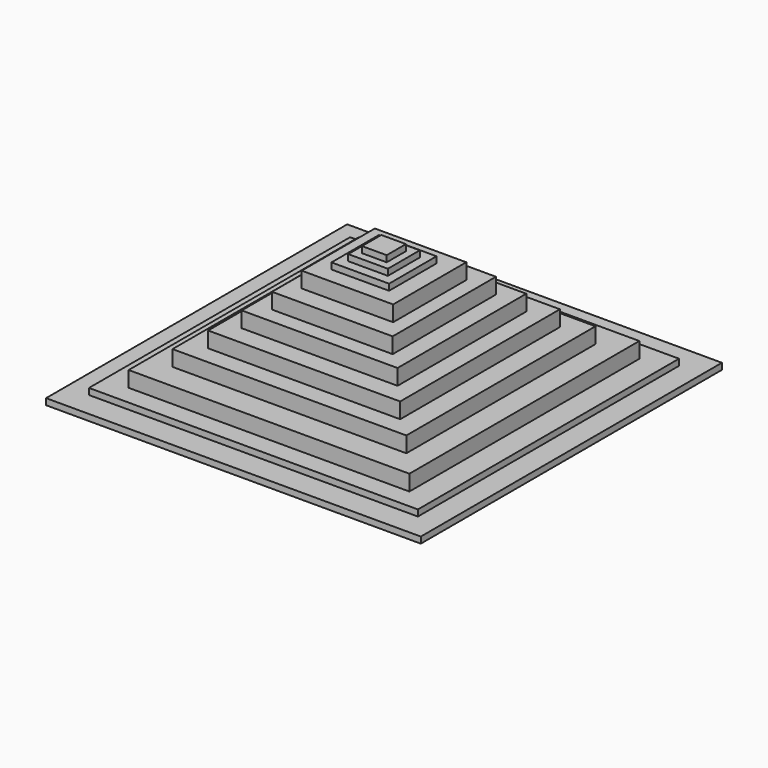
from build123d import *

# Parameters (mm, degrees)
F0_W      = 151.771664
F0_H      = 152.44925
F1_DEPTH  = 2.54
F2_W      = 133.218258
F2_H      = 132.201344
F3_DEPTH  = 2.54
F4_W      = 113.705158
F4_H      = 116.420522
F5_DEPTH  = 6.35
F6_W      = 94.709642
F6_H      = 95.752604
F7_DEPTH  = 6.35
F8_W      = 77.787876
F8_H      = 80.85847
F9_DEPTH  = 6.35
F10_W     = 63.117356
F10_H     = 65.164418
F11_DEPTH = 6.35
F12_W     = 48.859716
F12_H     = 52.300558
F13_DEPTH = 6.35
F14_W     = 37.017644
F14_H     = 37.017658
F15_DEPTH = 6.35
F16_W     = 23.323506
F16_H     = 24.019762
F17_DEPTH = 2.54
F18_W     = 16.055972
F18_H     = 16.134798
F19_DEPTH = 2.54
F20_W     = 9.981216
F20_H     = 9.746186
F21_DEPTH = 2.54


with BuildPart() as f1:
    # F0 (on Top) → F1 (new body)
    with BuildSketch(Plane.XY):
        Rectangle(F0_W, F0_H)
    extrude(amount=F1_DEPTH)

    # F2 (on face) → F3 (join)
    with BuildSketch(Plane.XY.offset(2.54)):
        Rectangle(F2_W, F2_H)
    extrude(amount=F3_DEPTH)

    # F4 (on face) → F5 (join)
    with BuildSketch(Plane.XY.offset(5.08)):
        Rectangle(F4_W, F4_H)
    extrude(amount=F5_DEPTH)

    # F6 (on face) → F7 (join)
    with BuildSketch(Plane.XY.offset(11.43)):
        Rectangle(F6_W, F6_H)
    extrude(amount=F7_DEPTH)

    # F8 (on face) → F9 (join)
    with BuildSketch(Plane.XY.offset(17.78)):
        Rectangle(F8_W, F8_H)
    extrude(amount=F9_DEPTH)

    # F10 (on face) → F11 (join)
    with BuildSketch(Plane.XY.offset(24.13)):
        Rectangle(F10_W, F10_H)
    extrude(amount=F11_DEPTH)

    # F12 (on face) → F13 (join)
    with BuildSketch(Plane.XY.offset(30.48)):
        Rectangle(F12_W, F12_H)
    extrude(amount=F13_DEPTH)

    # F14 (on face) → F15 (join)
    with BuildSketch(Plane.XY.offset(36.83)):
        Rectangle(F14_W, F14_H)
    extrude(amount=F15_DEPTH)

    # F16 (on face) → F17 (join)
    with BuildSketch(Plane.XY.offset(43.18)):
        Rectangle(F16_W, F16_H)
    extrude(amount=F17_DEPTH)

    # F18 (on face) → F19 (join)
    with BuildSketch(Plane.XY.offset(45.72)):
        Rectangle(F18_W, F18_H)
    extrude(amount=F19_DEPTH)

    # F20 (on face) → F21 (join)
    with BuildSketch(Plane.XY.offset(48.26)):
        Rectangle(F20_W, F20_H)
        Rectangle(F20_W, F20_H)
    extrude(amount=F21_DEPTH)


solid = f1.part
